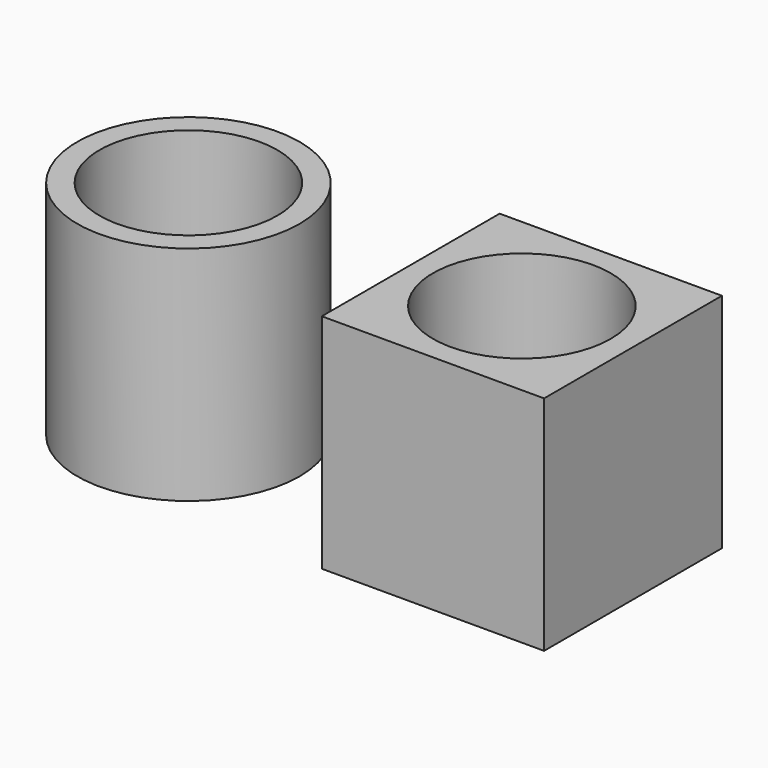
from build123d import *

# Parameters (mm, degrees)
F0_R     = 10
F0_R_2   = 8
F0_W     = 20
F0_H     = 20
F1_DEPTH = 20


with BuildPart() as f1:
    # F0 (on Top) → F1 (new body)
    with BuildSketch(Plane.XY):
        Circle(F0_R)
        Circle(F0_R_2, mode=Mode.SUBTRACT)
        with Locations((30, 0)):
            Rectangle(F0_W, F0_H)
        with Locations((30, 0)):
            Circle(F0_R_2, mode=Mode.SUBTRACT)
    extrude(amount=F1_DEPTH)


solid = f1.part
